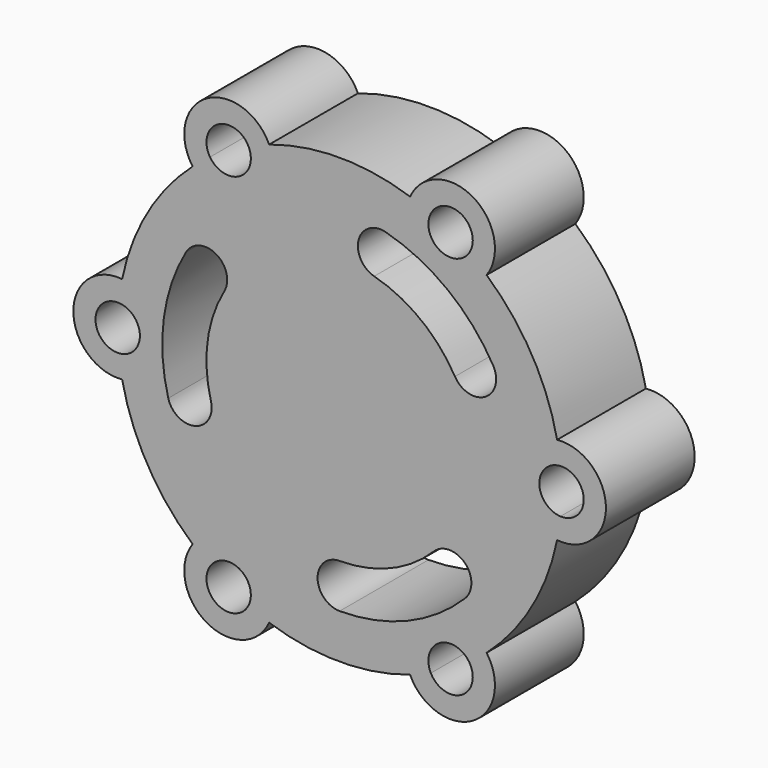
from build123d import *

# Parameters (mm, degrees)
F0_R     = 5
F2_DEPTH = 25
F3_DEPTH = 25.001


with BuildPart() as f2:
    # F0 (on Front) → F2 (new body)
    with BuildSketch(Plane.XZ):
        with BuildLine():
            ThreePointArc((-49, 9.949874), (-60, 0), (-49, -9.949874))
            ThreePointArc((-49, -9.949874), (-43.30127, -25), (-33.116844, -37.460308))
            ThreePointArc((-33.116844, -37.460308), (-31.197495, -39.073217), (-29.199711, -40.587891))
            ThreePointArc((-29.199711, -40.587891), (-23.585531, -38.505514), (-20, -43.30127))
            ThreePointArc((-20, -43.30127), (-20.139519, -44.474182), (-20.550289, -45.581637))
            ThreePointArc((-20.550289, -45.581637), (-18.239651, -46.554432), (-15.883156, -47.410182))
            ThreePointArc((-15.883156, -47.410182), (0, -50), (15.883156, -47.410182))
            ThreePointArc((15.883156, -47.410182), (18.239651, -46.554432), (20.550289, -45.581637))
            ThreePointArc((20.550289, -45.581637), (22.5, -38.971143), (29.199711, -40.587891))
            ThreePointArc((29.199711, -40.587891), (31.197495, -39.073217), (33.116844, -37.460308))
            ThreePointArc((33.116844, -37.460308), (43.30127, -25), (49, -9.949874))
            ThreePointArc((49, -9.949874), (49.437146, -7.481215), (49.75, -4.993746))
            ThreePointArc((49.75, -4.993746), (45, 0), (49.75, 4.993746))
            ThreePointArc((49.75, 4.993746), (49.437146, 7.481215), (49, 9.949874))
            ThreePointArc((49, 9.949874), (43.30127, 25), (33.116844, 37.460308))
            ThreePointArc((33.116844, 37.460308), (31.197495, 39.073217), (29.199711, 40.587891))
            ThreePointArc((29.199711, 40.587891), (22.5, 38.971143), (20.550289, 45.581637))
            ThreePointArc((20.550289, 45.581637), (18.239651, 46.554432), (15.883156, 47.410182))
            ThreePointArc((15.883156, 47.410182), (0, 50), (-15.883156, 47.410182))
            ThreePointArc((-15.883156, 47.410182), (-18.239651, 46.554432), (-20.550289, 45.581637))
            ThreePointArc((-20.550289, 45.581637), (-20.139519, 44.474182), (-20, 43.30127))
            ThreePointArc((-20, 43.30127), (-23.585531, 38.505514), (-29.199711, 40.587891))
            ThreePointArc((-29.199711, 40.587891), (-31.197495, 39.073217), (-33.116844, 37.460308))
            ThreePointArc((-33.116844, 37.460308), (-43.30127, 25), (-49, 9.949874))
        make_face()
        with Locations((-50, 0)):
            Circle(F0_R, mode=Mode.SUBTRACT)
        with BuildLine():
            ThreePointArc((-15.883156, 47.410182), (-30, 51.961524), (-33.116844, 37.460308))
            ThreePointArc((-33.116844, 37.460308), (-31.197495, 39.073217), (-29.199711, 40.587891))
            ThreePointArc((-29.199711, 40.587891), (-27.5, 47.631397), (-20.550289, 45.581637))
            ThreePointArc((-20.550289, 45.581637), (-18.239651, 46.554432), (-15.883156, 47.410182))
        make_face()
        with BuildLine():
            ThreePointArc((33.116844, 37.460308), (30, 51.961524), (15.883156, 47.410182))
            ThreePointArc((15.883156, 47.410182), (18.239651, 46.554432), (20.550289, 45.581637))
            ThreePointArc((20.550289, 45.581637), (26.172912, 48.161751), (30, 43.30127))
            ThreePointArc((30, 43.30127), (29.795756, 41.886801), (29.199711, 40.587891))
            ThreePointArc((29.199711, 40.587891), (31.197495, 39.073217), (33.116844, 37.460308))
        make_face()
        with BuildLine():
            ThreePointArc((49.75, -4.993746), (49.437146, -7.481215), (49, -9.949874))
            ThreePointArc((49, -9.949874), (60, 0), (49, 9.949874))
            ThreePointArc((49, 9.949874), (49.437146, 7.481215), (49.75, 4.993746))
            ThreePointArc((49.75, 4.993746), (53.446012, 3.622844), (55, 0))
            ThreePointArc((55, 0), (53.446012, -3.622844), (49.75, -4.993746))
        make_face()
        with BuildLine():
            ThreePointArc((20.550289, -45.581637), (18.239651, -46.554432), (15.883156, -47.410182))
            ThreePointArc((15.883156, -47.410182), (30, -51.961524), (33.116844, -37.460308))
            ThreePointArc((33.116844, -37.460308), (31.197495, -39.073217), (29.199711, -40.587891))
            ThreePointArc((29.199711, -40.587891), (29.795756, -41.886801), (30, -43.30127))
            ThreePointArc((30, -43.30127), (26.172912, -48.161751), (20.550289, -45.581637))
        make_face()
        with BuildLine():
            ThreePointArc((-29.199711, -40.587891), (-31.197495, -39.073217), (-33.116844, -37.460308))
            ThreePointArc((-33.116844, -37.460308), (-30, -51.961524), (-15.883156, -47.410182))
            ThreePointArc((-15.883156, -47.410182), (-18.239651, -46.554432), (-20.550289, -45.581637))
            ThreePointArc((-20.550289, -45.581637), (-27.5, -47.631397), (-29.199711, -40.587891))
        make_face()
    extrude(amount=-F2_DEPTH)

    # F1 (on face) → F3 (cut, through all)
    with BuildSketch(Plane.XZ):
        with BuildLine():
            ThreePointArc((-34.61205, 19.969401), (-39.616154, 5.22794), (-38.60747, -10.306999))
            ThreePointArc((-38.60747, -10.306999), (-32.51911, -13.829545), (-28.996565, -7.741185))
            ThreePointArc((-28.996565, -7.741185), (-29.754147, 3.926501), (-25.99576, 14.998238))
            ThreePointArc((-25.99576, 14.998238), (-27.818323, 21.791965), (-34.61205, 19.969401))
        make_face()
        with BuildLine():
            ThreePointArc((34.600034, 19.990214), (24.335605, 31.694626), (10.377612, 38.588549))
            ThreePointArc((10.377612, 38.588549), (4.282818, 35.077148), (7.79422, 28.982354))
            ThreePointArc((7.79422, 28.982354), (18.277524, 23.804597), (25.986735, 15.013869))
            ThreePointArc((25.986735, 15.013869), (32.781557, 13.195392), (34.600034, 19.990214))
        make_face()
        with BuildLine():
            ThreePointArc((0.012016, -39.959615), (15.280548, -36.922565), (28.229858, -28.28155))
            ThreePointArc((28.229858, -28.28155), (28.236292, -21.247603), (21.202345, -21.241169))
            ThreePointArc((21.202345, -21.241169), (11.476624, -27.731098), (0.009025, -30.012108))
            ThreePointArc((0.009025, -30.012108), (-4.963233, -34.987357), (0.012016, -39.959615))
        make_face()
    extrude(amount=-F3_DEPTH, mode=Mode.SUBTRACT)


solid = f2.part
